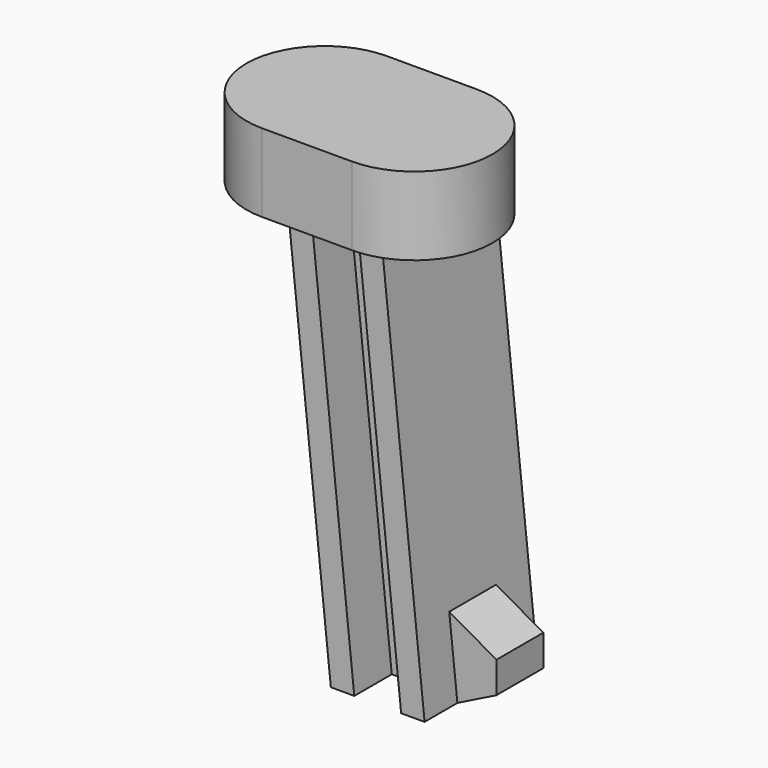
from build123d import *

# Parameters (mm, degrees)
PAD005_DEPTH    = 1.8
POCKET004_DEPTH = 1.2
PAD007_DEPTH    = 2
PAD011_DEPTH    = 0.75


with BuildPart() as part:
    # Sketch008 → Pad005 (new body, symmetric)
    with BuildSketch(Plane.XZ):
        Polygon((-53.3, -8.3), (-54.367859, 1.86), (-56.767859, 1.86), (-55.7, -8.3), align=None)
    extrude(amount=PAD005_DEPTH, both=True)

    # Sketch010 (on DatumPlane) → Pocket004 (cut)
    with BuildSketch(Plane.XZ.offset(1.8)):
        Polygon((-53.9, -8.3), (-54.967859, 1.86), (-56.167859, 1.86), (-55.1, -8.3), align=None)
    pocket004 = extrude(amount=-POCKET004_DEPTH, mode=Mode.SUBTRACT)

    # Mirrored002: Pocket004 across XZ
    add(pocket004.mirror(Plane.XZ), mode=Mode.SUBTRACT)

    # Sketch014 (on DatumPlane) → Pad007 (join)
    with BuildSketch(Plane.XY.offset(1.86)):
        with BuildLine():
            ThreePointArc((-57.3, 2), (-59.3, 0), (-57.3, -2))
            Line((-57.3, -2), (-55, -2))
            ThreePointArc((-55, -2), (-53, 0), (-55, 2))
            Line((-57.3, 2), (-55, 2))
        make_face()
    extrude(amount=PAD007_DEPTH)

    # Sketch023 → Pad011 (join, symmetric)
    with BuildSketch(Plane.XZ):
        Polygon((-53.509057, -6.310956), (-53.3, -8.3), (-52.3, -7.8), (-52.3, -7), align=None)
    extrude(amount=PAD011_DEPTH, both=True)


solid = part.part
